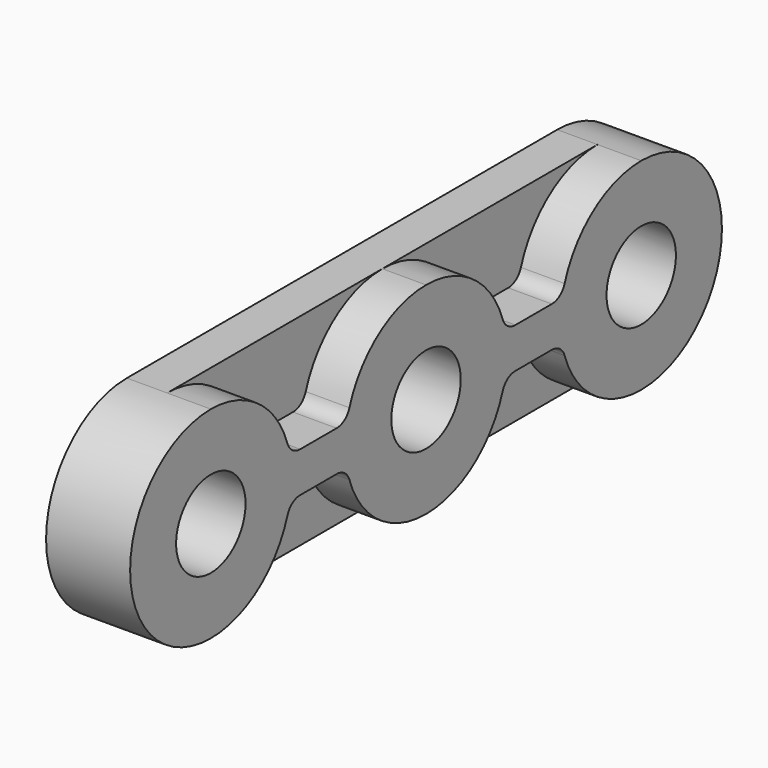
from build123d import *

# Parameters (mm, degrees)
F0_R     = 6.5532
F1_DEPTH = 6.096
F2_DEPTH = 6.604


with BuildPart() as f1:
    # F0 (on Right) → F1 (new body)
    with BuildSketch(Plane.YZ):
        with BuildLine():
            ThreePointArc((-23.76094, 3.048), (-25.248212, 3.528966), (-26.172235, 4.789714))
            ThreePointArc((-26.172235, 4.789714), (-31.71637, 12.354207), (-40.64, 15.24))
            ThreePointArc((-40.64, 15.24), (-55.88, 0), (-40.64, -15.24))
            ThreePointArc((-40.64, -15.24), (-31.71637, -12.354207), (-26.172235, -4.789714))
            ThreePointArc((-26.172235, -4.789714), (-25.248212, -3.528966), (-23.76094, -3.048))
            Line((-23.76094, -3.048), (-16.87906, -3.048))
            ThreePointArc((-16.87906, -3.048), (-15.391788, -3.528966), (-14.467765, -4.789714))
            ThreePointArc((-14.467765, -4.789714), (-8.92363, -12.354207), (0, -15.24))
            ThreePointArc((0, -15.24), (8.92363, -12.354207), (14.467765, -4.789714))
            ThreePointArc((14.467765, -4.789714), (15.391788, -3.528966), (16.87906, -3.048))
            Line((16.87906, -3.048), (23.76094, -3.048))
            ThreePointArc((23.76094, -3.048), (25.248212, -3.528966), (26.172235, -4.789714))
            ThreePointArc((26.172235, -4.789714), (31.71637, -12.354207), (40.64, -15.24))
            ThreePointArc((40.64, -15.24), (55.88, 0), (40.64, 15.24))
            ThreePointArc((40.64, 15.24), (31.71637, 12.354207), (26.172235, 4.789714))
            ThreePointArc((26.172235, 4.789714), (25.248212, 3.528966), (23.76094, 3.048))
            Line((23.76094, 3.048), (16.87906, 3.048))
            ThreePointArc((16.87906, 3.048), (15.391788, 3.528966), (14.467765, 4.789714))
            ThreePointArc((14.467765, 4.789714), (8.92363, 12.354207), (0, 15.24))
            ThreePointArc((0, 15.24), (-8.92363, 12.354207), (-14.467765, 4.789714))
            ThreePointArc((-14.467765, 4.789714), (-15.391788, 3.528966), (-16.87906, 3.048))
            Line((-16.87906, 3.048), (-23.76094, 3.048))
        make_face()
        with Locations((-40.64, 0)):
            Circle(F0_R, mode=Mode.SUBTRACT)
        Circle(F0_R, mode=Mode.SUBTRACT)
        with Locations((40.64, 0)):
            Circle(F0_R, mode=Mode.SUBTRACT)
        with BuildLine():
            ThreePointArc((-40.64, 15.24), (-31.71637, 12.354207), (-26.172235, 4.789714))
            ThreePointArc((-26.172235, 4.789714), (-25.248212, 3.528966), (-23.76094, 3.048))
            Line((-23.76094, 3.048), (-16.87906, 3.048))
            ThreePointArc((-16.87906, 3.048), (-15.391788, 3.528966), (-14.467765, 4.789714))
            ThreePointArc((-14.467765, 4.789714), (-8.92363, 12.354207), (0, 15.24))
            Line((0, 15.24), (-40.64, 15.24))
        make_face()
        with BuildLine():
            ThreePointArc((-26.172235, -4.789714), (-31.71637, -12.354207), (-40.64, -15.24))
            Line((-40.64, -15.24), (0, -15.24))
            ThreePointArc((0, -15.24), (-8.92363, -12.354207), (-14.467765, -4.789714))
            ThreePointArc((-14.467765, -4.789714), (-15.391788, -3.528966), (-16.87906, -3.048))
            Line((-16.87906, -3.048), (-23.76094, -3.048))
            ThreePointArc((-23.76094, -3.048), (-25.248212, -3.528966), (-26.172235, -4.789714))
        make_face()
        with BuildLine():
            Line((40.64, 15.24), (0, 15.24))
            ThreePointArc((0, 15.24), (8.92363, 12.354207), (14.467765, 4.789714))
            ThreePointArc((14.467765, 4.789714), (15.391788, 3.528966), (16.87906, 3.048))
            Line((16.87906, 3.048), (23.76094, 3.048))
            ThreePointArc((23.76094, 3.048), (25.248212, 3.528966), (26.172235, 4.789714))
            ThreePointArc((26.172235, 4.789714), (31.71637, 12.354207), (40.64, 15.24))
        make_face()
        with BuildLine():
            ThreePointArc((14.467765, -4.789714), (8.92363, -12.354207), (0, -15.24))
            Line((0, -15.24), (40.64, -15.24))
            ThreePointArc((40.64, -15.24), (31.71637, -12.354207), (26.172235, -4.789714))
            ThreePointArc((26.172235, -4.789714), (25.248212, -3.528966), (23.76094, -3.048))
            Line((23.76094, -3.048), (16.87906, -3.048))
            ThreePointArc((16.87906, -3.048), (15.391788, -3.528966), (14.467765, -4.789714))
        make_face()
    extrude(amount=-F1_DEPTH)

    # F0 (on Right) → F2 (join)
    with BuildSketch(Plane.YZ):
        with BuildLine():
            ThreePointArc((-23.76094, 3.048), (-25.248212, 3.528966), (-26.172235, 4.789714))
            ThreePointArc((-26.172235, 4.789714), (-31.71637, 12.354207), (-40.64, 15.24))
            ThreePointArc((-40.64, 15.24), (-55.88, 0), (-40.64, -15.24))
            ThreePointArc((-40.64, -15.24), (-31.71637, -12.354207), (-26.172235, -4.789714))
            ThreePointArc((-26.172235, -4.789714), (-25.248212, -3.528966), (-23.76094, -3.048))
            Line((-23.76094, -3.048), (-16.87906, -3.048))
            ThreePointArc((-16.87906, -3.048), (-15.391788, -3.528966), (-14.467765, -4.789714))
            ThreePointArc((-14.467765, -4.789714), (-8.92363, -12.354207), (0, -15.24))
            ThreePointArc((0, -15.24), (8.92363, -12.354207), (14.467765, -4.789714))
            ThreePointArc((14.467765, -4.789714), (15.391788, -3.528966), (16.87906, -3.048))
            Line((16.87906, -3.048), (23.76094, -3.048))
            ThreePointArc((23.76094, -3.048), (25.248212, -3.528966), (26.172235, -4.789714))
            ThreePointArc((26.172235, -4.789714), (31.71637, -12.354207), (40.64, -15.24))
            ThreePointArc((40.64, -15.24), (55.88, 0), (40.64, 15.24))
            ThreePointArc((40.64, 15.24), (31.71637, 12.354207), (26.172235, 4.789714))
            ThreePointArc((26.172235, 4.789714), (25.248212, 3.528966), (23.76094, 3.048))
            Line((23.76094, 3.048), (16.87906, 3.048))
            ThreePointArc((16.87906, 3.048), (15.391788, 3.528966), (14.467765, 4.789714))
            ThreePointArc((14.467765, 4.789714), (8.92363, 12.354207), (0, 15.24))
            ThreePointArc((0, 15.24), (-8.92363, 12.354207), (-14.467765, 4.789714))
            ThreePointArc((-14.467765, 4.789714), (-15.391788, 3.528966), (-16.87906, 3.048))
            Line((-16.87906, 3.048), (-23.76094, 3.048))
        make_face()
        with Locations((-40.64, 0)):
            Circle(F0_R, mode=Mode.SUBTRACT)
        Circle(F0_R, mode=Mode.SUBTRACT)
        with Locations((40.64, 0)):
            Circle(F0_R, mode=Mode.SUBTRACT)
    extrude(amount=F2_DEPTH)


solid = f1.part
